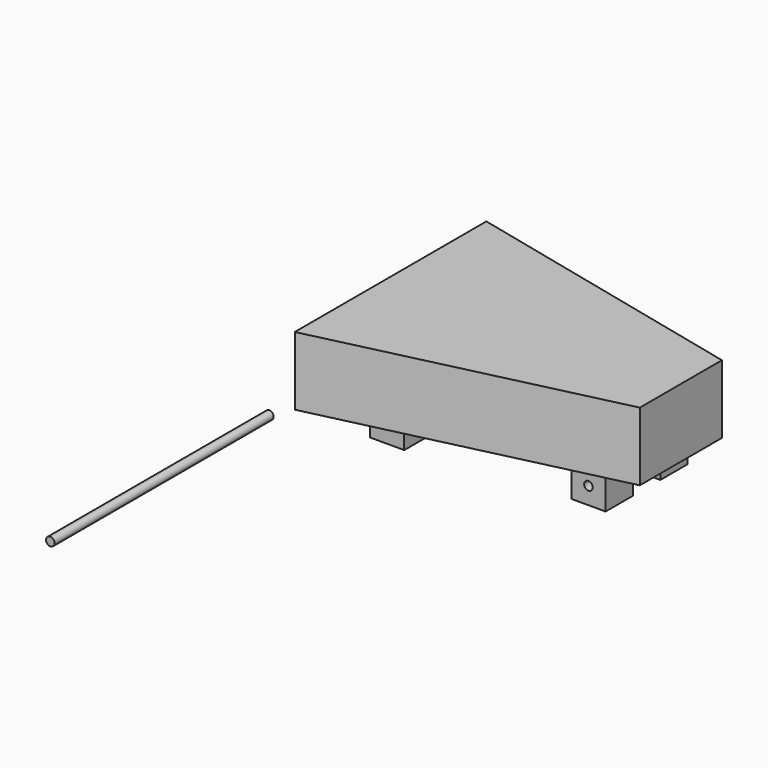
from build123d import *

# Parameters (mm, degrees)
F1_DEPTH = 50.8
F2_W     = 25.4
F2_H     = 25.4
F3_DEPTH = 25.4
F4_R     = 3.175
F5_DEPTH = 177.801
F6_R     = 3.175
F7_DEPTH = 203.2


with BuildPart() as f1:
    # F0 (on Top) → F1 (new body)
    with BuildSketch(Plane.XY):
        Polygon((0, 177.8), (0, 0), (215.514203, 50.8), (215.514203, 127), align=None)
    extrude(amount=F1_DEPTH)

    # F2 (on face) → F3 (join)
    with BuildSketch(Plane(origin=(0, 0, 0), x_dir=(1, 0, 0), z_dir=(0, 0, -1))):
        with Locations((177.414203, -63.5)):
            Rectangle(F2_W, F2_H)
        with Locations((177.414203, -114.3)):
            Rectangle(F2_W, F2_H)
        with Locations((38.1, -50.8)):
            Rectangle(F2_W, F2_H)
        with Locations((38.1, -127)):
            Rectangle(F2_W, F2_H)
    extrude(amount=F3_DEPTH)

    # F4 (on Front) → F5 (cut, through all)
    with BuildSketch(Plane.XZ):
        with Locations((38.1, -12.7)):
            Circle(F4_R)
        with Locations((177.414203, -12.7)):
            Circle(F4_R)
    extrude(amount=-F5_DEPTH, mode=Mode.SUBTRACT)


with BuildPart() as f7:
    # F6 (on Front) → F7 (new body)
    with BuildSketch(Plane.XZ):
        with Locations((-18.890467, -9.688093)):
            Circle(F6_R)
    extrude(amount=F7_DEPTH)


solid = Compound([f1.part, f7.part])
